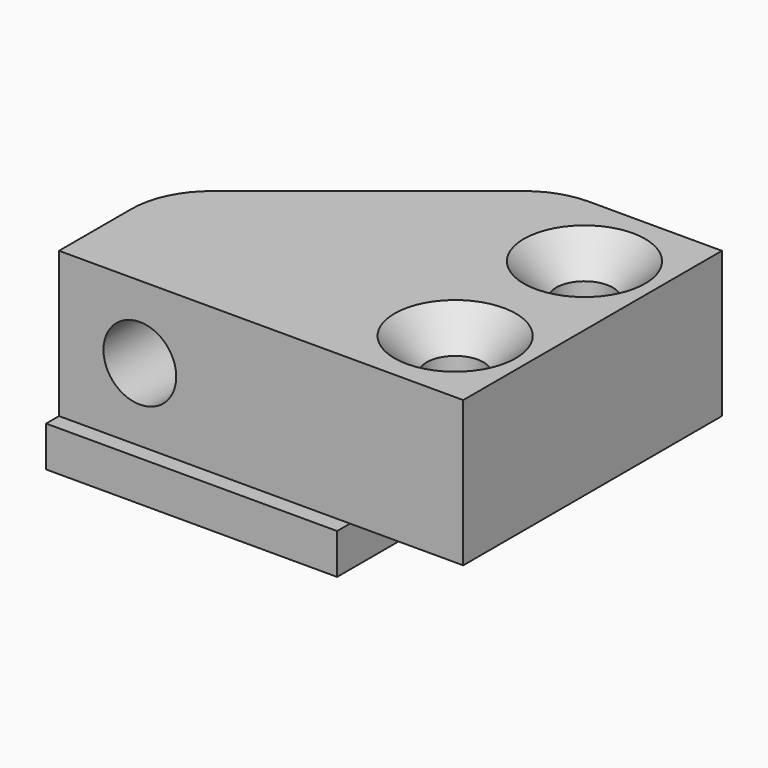
from build123d import *

# Parameters (mm, degrees)
SKETCH236_W      = 25
SKETCH236_H      = 9
PAD097_DEPTH     = 20
SKETCH237_W      = 18
SKETCH237_H      = 20
PAD098_DEPTH     = 2.5
SKETCH238_R      = 1.75
POCKET034_DEPTH  = 11
CHAMFER030_SIZE  = 2
SKETCH239_R      = 2.25
POCKET035_DEPTH  = 8
CHAMFER031_SIZE2 = 12
CHAMFER031_SIZE  = 15
SKETCH240_W      = 18
SKETCH240_H      = 2.5
PAD099_DEPTH     = 1
FILLET025_R      = 5


with BuildPart() as body044:
    # Sketch236 → Pad097 (new body)
    with BuildSketch(Plane.XZ):
        with Locations((12.5, 0)):
            Rectangle(SKETCH236_W, SKETCH236_H)
    extrude(amount=-PAD097_DEPTH)

    # Sketch237 (on Face2 of Pad097) → Pad098 (join)
    with BuildSketch(Plane(origin=(0, 0, -4.5), x_dir=(1, 0, 0), z_dir=(0, 0, -1))):
        with Locations((16, -10)):
            Rectangle(SKETCH237_W, SKETCH237_H)
    extrude(amount=PAD098_DEPTH)

    # Sketch238 (on Face3 of Pad098) → Pocket034 (cut)
    with BuildSketch(Plane(origin=(0, 0, -4.5), x_dir=(1, 0, 0), z_dir=(0, 0, -1))):
        with Locations((4.5, -5)):
            Circle(SKETCH238_R)
        with Locations((4.5, -15)):
            Circle(SKETCH238_R)
    extrude(amount=-POCKET034_DEPTH, mode=Mode.SUBTRACT)

    # Chamfer030
    chamfer030_edges = [body044.edges().sort_by_distance(p)[0] for p in [
        (2.75, 15, 4.5),
        (2.75, 5, 4.5),
    ]]
    chamfer(chamfer030_edges, length=CHAMFER030_SIZE)

    # Sketch239 (on Face4 of Chamfer030) → Pocket035 (cut)
    with BuildSketch(Plane.XZ):
        with Locations((20, 0)):
            Circle(SKETCH239_R)
    extrude(amount=-POCKET035_DEPTH, mode=Mode.SUBTRACT)

    # Chamfer031
    chamfer031_edges = [body044.edges().sort_by_distance(p)[0] for p in [
        (25, 20, -1.25),
    ]]
    chamfer031_side = body044.faces().sort_by_distance((13.083333, 20, -0.958333))[0]
    chamfer(chamfer031_edges, length=CHAMFER031_SIZE, length2=CHAMFER031_SIZE2, reference=chamfer031_side)

    # Sketch240 (on Face6 of Chamfer031) → Pad099 (join)
    with BuildSketch(Plane.XZ):
        with Locations((16, -5.75)):
            Rectangle(SKETCH240_W, SKETCH240_H)
    extrude(amount=PAD099_DEPTH)

    # Fillet025
    fillet025_edges = [body044.edges().sort_by_distance(p)[0] for p in [
        (25, 8, -1.25),
        (10, 20, -1.25),
    ]]
    fillet(fillet025_edges, radius=FILLET025_R)


with BuildPart() as body044_1:
    # Body044 placement: moved
    add(body044.part.moved(Location((10, 0, 0))))


with BuildPart() as part_mirroring002:
    # Part__Mirroring002: instance of Body044
    add(body044_1.part.mirror(Plane(origin=(0, 0, 0), x_dir=(0, -1, 0), z_dir=(1, 0, 0))))


with BuildPart() as part_mirroring002_1:
    # Part__Mirroring002 placement: moved
    add(part_mirroring002.part.moved(Location((-20, 0, 0))))


solid = part_mirroring002_1.part
